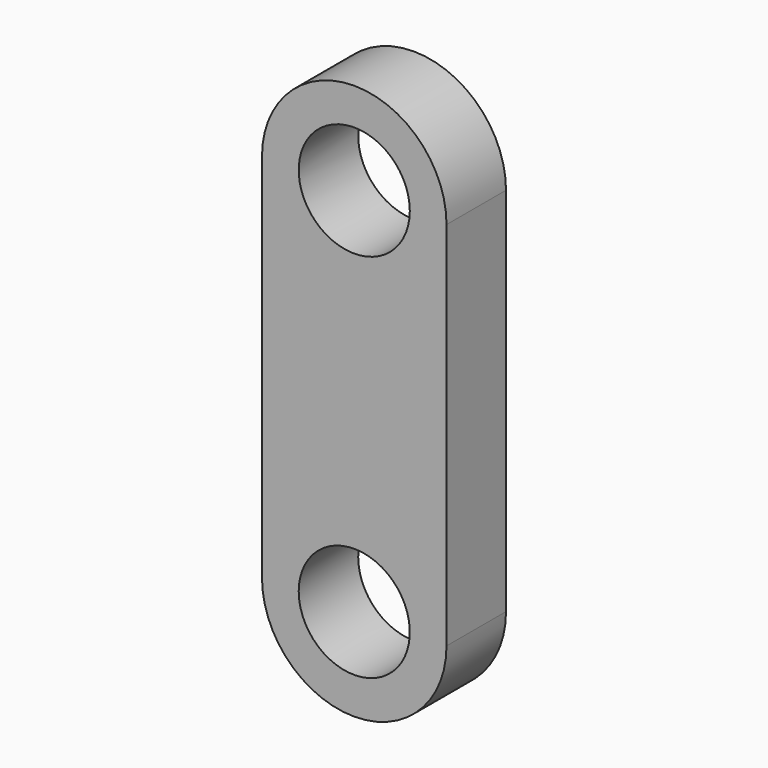
from build123d import *

# Parameters (mm, degrees)
F0_R     = 1.4986
F1_DEPTH = 2.0066
F2_R     = 1.4986
F3_DEPTH = 25.4


with BuildPart() as f1:
    # F0 (on Front) → F1 (new body)
    with BuildSketch(Plane.XZ):
        with BuildLine():
            Line((2.4892, -5.0038), (2.4892, 5.0038))
            ThreePointArc((2.4892, 5.0038), (0, 7.493), (-2.4892, 5.0038))
            Line((-2.4892, 5.0038), (-2.4892, -5.0038))
            ThreePointArc((-2.4892, -5.0038), (0, -7.493), (2.4892, -5.0038))
        make_face()
        with Locations((0, 5.0038)):
            Circle(F0_R, mode=Mode.SUBTRACT)
    extrude(amount=-F1_DEPTH)

    # F2 (on face) → F3 (cut)
    with BuildSketch(Plane(origin=(0, 2.0066, 0), x_dir=(-1, 0, 0), z_dir=(0, 1, 0))):
        with Locations((0, -5.0038)):
            Circle(F2_R)
    extrude(amount=-F3_DEPTH, mode=Mode.SUBTRACT)


solid = f1.part
